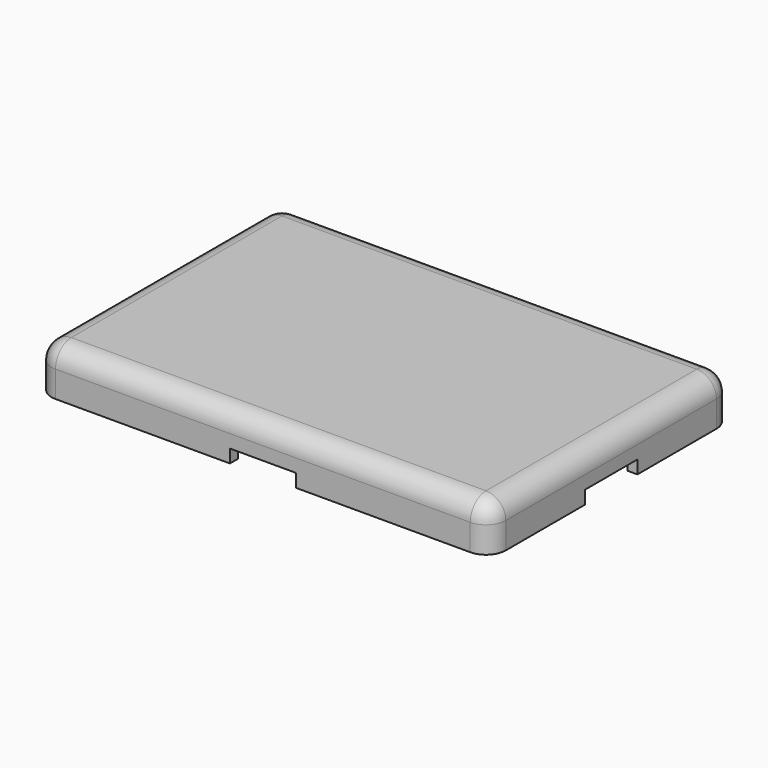
from build123d import *

# Parameters (mm, degrees)
SKETCH046_W     = 31.5
SKETCH046_H     = 20
PAD026_DEPTH    = 2
THICKNESS008_T  = 1.5
SKETCH050_W     = 33
SKETCH050_H     = 21.5
POCKET016_DEPTH = 5
POCKET017_DEPTH = 1


with BuildPart() as part:
    # Sketch046 → Pad026 (new body)
    with BuildSketch(Plane.XY):
        Rectangle(SKETCH046_W, SKETCH046_H)
    extrude(amount=PAD026_DEPTH)

    # Thickness008
    thickness008_openings = [part.faces().sort_by_distance(p)[0] for p in [
        (0, 0, 0),
    ]]
    offset(amount=THICKNESS008_T, openings=thickness008_openings)

    # Sketch050 (on Face5 of Thickness008) → Pocket016 (cut)
    with BuildSketch(Plane(origin=(0, 0, 2), x_dir=(1, 0, 0), z_dir=(0, 0, -1))):
        Rectangle(SKETCH050_W, SKETCH050_H)
    extrude(amount=POCKET016_DEPTH, mode=Mode.SUBTRACT)

    # Sketch048 → Pocket017 (cut)
    with BuildSketch(Plane.XY):
        Polygon((-28.138837, 2.5), (-2.5, 2.5), (-2.5, 15.913807), (2.5, 15.913807), (2.5, 2.5), (28.138837, 2.5), (28.138837, -2.5), (2.5, -2.5), (2.5, -15.913807), (-2.5, -15.913807), (-2.5, -2.5), (-28.138837, -2.5), align=None)
    extrude(amount=POCKET017_DEPTH, mode=Mode.SUBTRACT)


with BuildPart() as part_1:
    # Body011 placement: moved
    add(part.part.moved(Location((0, 0, 49))))


solid = part_1.part
